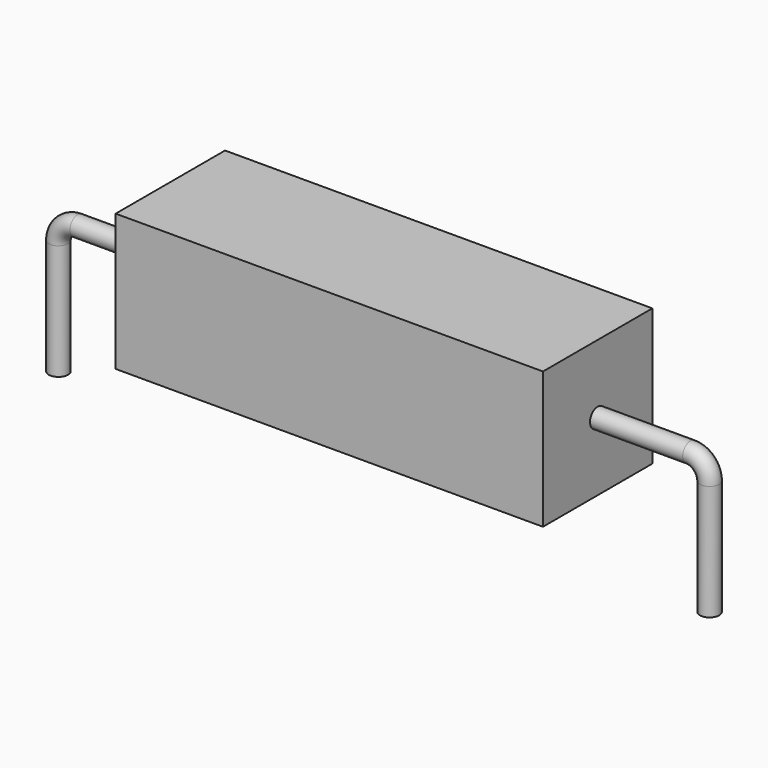
from build123d import *

# Parameters (mm, degrees)
SKETCH_R    = 0.45
SKETCH002_W = 20
SKETCH002_H = 6.4
PAD_DEPTH   = 3.2


with BuildPart() as sweep_body:
    # Sweep: sweep along a path in Sketch001
    with BuildLine(Plane.XZ) as sweep_path:
        Line((0, -3), (0, 2.4))
        ThreePointArc((0, 2.4), (0.263601, 3.036394), (0.899993, 3.3))
        Line((0.899993, 3.3), (29.58, 3.3))
        ThreePointArc((29.58, 3.3), (30.216396, 3.036396), (30.48, 2.4))
        Line((30.48, 2.4), (30.48, -3))
    # Sketch → Sweep (sweep)
    with BuildSketch(Plane.XY.offset(-2)):
        Circle(SKETCH_R)
    sweep(path=sweep_path.line)


with BuildPart() as pad:
    # Sketch002 → Pad (new body, symmetric)
    with BuildSketch(Plane.XZ):
        with Locations((15.24, 3.3)):
            Rectangle(SKETCH002_W, SKETCH002_H)
    extrude(amount=PAD_DEPTH, both=True)


solid = Compound([sweep_body.part, pad.part])
